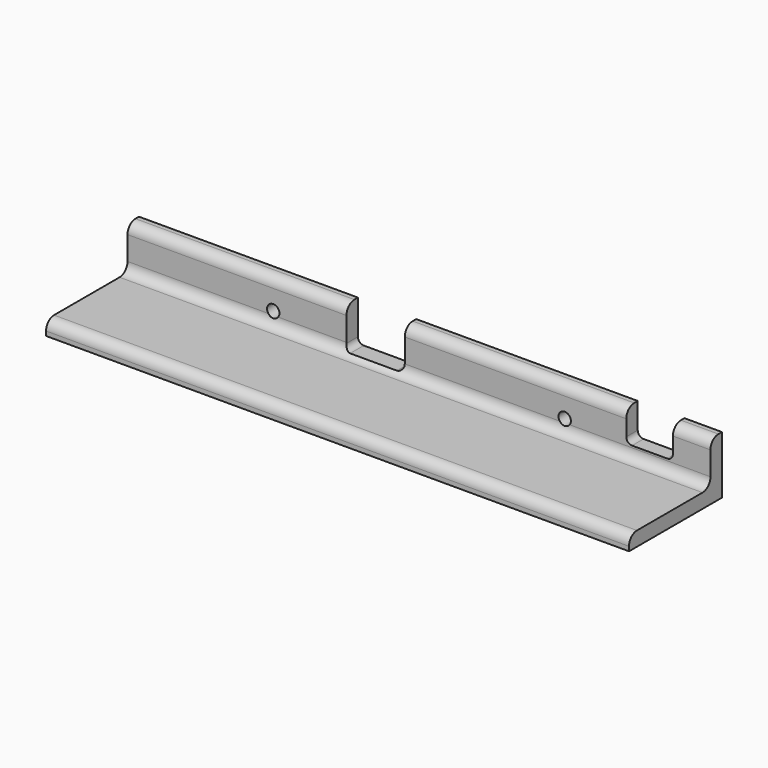
from build123d import *

# Parameters (mm, degrees)
F1_DEPTH = 127
F2_R     = 1.3462
F3_DEPTH = 25.2994
F5_DEPTH = 25.2994


with BuildPart() as f1:
    # F0 (on Right) → F1 (new body)
    with BuildSketch(Plane.YZ):
        with BuildLine():
            Line((-10.285505, -7.297242), (-10.285505, -8.262442))
            Line((-10.285505, -8.262442), (15.012895, -8.262442))
            Line((15.012895, -8.262442), (15.012895, 4.335958))
            Line((15.012895, 4.335958), (14.047695, 4.335958))
            ThreePointArc((14.047695, 4.335958), (12.521052, 3.703602), (11.888695, 2.176958))
            Line((11.888695, 2.176958), (11.888695, -2.979242))
            ThreePointArc((11.888695, -2.979242), (11.256339, -4.505885), (9.729695, -5.138242))
            Line((9.729695, -5.138242), (-8.126505, -5.138242))
            ThreePointArc((-8.126505, -5.138242), (-9.653148, -5.770598), (-10.285505, -7.297242))
        make_face()
    extrude(amount=F1_DEPTH)

    # F2 (on face) → F3 (cut, through all)
    with BuildSketch(Plane(origin=(0, 15.012895, 0), x_dir=(-1, 0, 0), z_dir=(0, 1, 0))):
        with Locations((-31.75, -2.166442)):
            Circle(F2_R)
        with Locations((-95.25, -2.166442)):
            Circle(F2_R)
    extrude(amount=-F3_DEPTH, mode=Mode.SUBTRACT)

    # F4 (on face) → F5 (cut, through all)
    with BuildSketch(Plane(origin=(0, 15.012895, 0), x_dir=(-1, 0, 0), z_dir=(0, 1, 0))):
        with BuildLine():
            Line((-108.6612, -1.277442), (-108.6612, 4.335958))
            Line((-108.6612, 4.335958), (-118.8212, 4.335958))
            Line((-118.8212, 4.335958), (-118.8212, -1.277442))
            ThreePointArc((-118.8212, -1.277442), (-118.449226, -2.175467), (-117.5512, -2.547442))
            Line((-117.5512, -2.547442), (-109.9312, -2.547442))
            ThreePointArc((-109.9312, -2.547442), (-109.033174, -2.175467), (-108.6612, -1.277442))
        make_face()
        with BuildLine():
            Line((-47.7012, -3.182442), (-47.7012, 4.335958))
            Line((-47.7012, 4.335958), (-60.4012, 4.335958))
            Line((-60.4012, 4.335958), (-60.4012, -3.182442))
            ThreePointArc((-60.4012, -3.182442), (-60.029226, -4.080467), (-59.1312, -4.452442))
            Line((-59.1312, -4.452442), (-48.9712, -4.452442))
            ThreePointArc((-48.9712, -4.452442), (-48.073174, -4.080467), (-47.7012, -3.182442))
        make_face()
    extrude(amount=-F5_DEPTH, mode=Mode.SUBTRACT)


solid = f1.part
